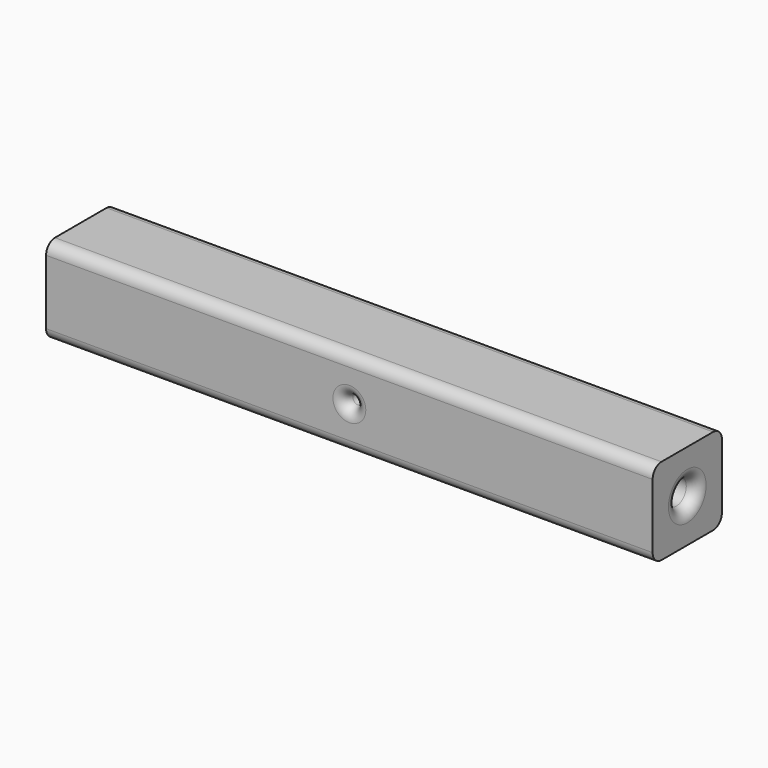
from build123d import *

# Parameters (mm, degrees)
F1_DEPTH = 39.878
F2_R     = 5.767295
F3_DEPTH = 279.401
F4_R     = 5.08


with BuildPart() as f1:
    # F0 (on Front) → F1 (new body)
    with BuildSketch(Plane.XZ):
        with BuildLine():
            Line((139.7, 0), (139.7, 19.939))
            Line((139.7, 19.939), (-139.7, 19.939))
            Line((-139.7, 19.939), (-139.7, 0))
            Line((-139.7, 0), (-2.4892, 0))
            ThreePointArc((-2.4892, 0), (0, 2.4892), (2.4892, 0))
            Line((2.4892, 0), (139.7, 0))
        make_face()
        with BuildLine():
            Line((139.7, -19.939), (139.7, 0))
            Line((139.7, 0), (2.4892, 0))
            ThreePointArc((2.4892, 0), (0, -2.4892), (-2.4892, 0))
            Line((-2.4892, 0), (-139.7, 0))
            Line((-139.7, 0), (-139.7, -19.939))
            Line((-139.7, -19.939), (139.7, -19.939))
        make_face()
    extrude(amount=F1_DEPTH)

    # F2 (on face) → F3 (cut, through all)
    with BuildSketch(Plane.YZ.offset(139.7)):
        with Locations((-19.939, 0)):
            Circle(F2_R)
    extrude(amount=-F3_DEPTH, mode=Mode.SUBTRACT)

    # F4
    f4_edges = [f1.edges().sort_by_distance(p)[0] for p in [
        (139.7, -25.706295, 0),
        (-2.4892, -39.878, 0),
        (0, -39.878, 19.939),
        (0, 0, 19.939),
        (0, 0, -19.939),
        (0, -39.878, -19.939),
    ]]
    fillet(f4_edges, radius=F4_R)


solid = f1.part
